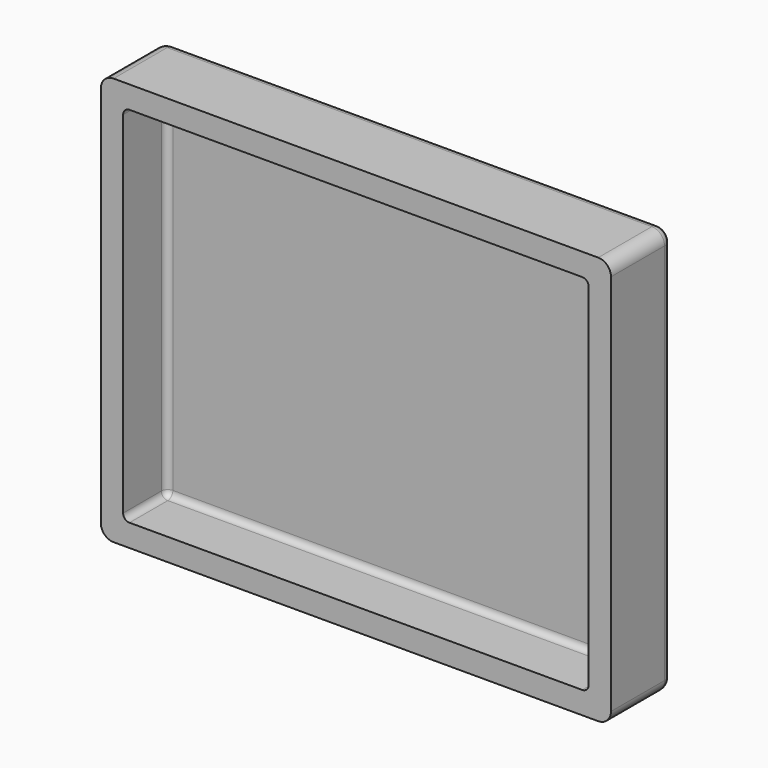
from build123d import *

# Parameters (mm, degrees)
F1_DEPTH = 76.2
F2_T     = -22.225
F3_R     = 9.525
F4_R     = 6.35
F5_R     = 6.35


with BuildPart() as f1:
    # F0 (on Front) → F1 (new body)
    with BuildSketch(Plane.XZ):
        with BuildLine():
            ThreePointArc((0, 12.7), (3.7197438789, 3.7197438789), (12.7, 0))
            Line((12.7, 0), (495.3, 0))
            ThreePointArc((495.3, 0), (504.2802561211, 3.7197438789), (508, 12.7))
            Line((508, 12.7), (508, 393.7))
            ThreePointArc((508, 393.7), (504.2802561211, 402.6802561211), (495.3, 406.4))
            Line((495.3, 406.4), (12.7, 406.4))
            ThreePointArc((12.7, 406.4), (3.7197438789, 402.6802561211), (0, 393.7))
            Line((0, 393.7), (0, 12.7))
        make_face()
    extrude(amount=F1_DEPTH)

    # F2
    f2_openings = [f1.faces().sort_by_distance(p)[0] for p in [
        (254, -76.2, 203.2),
    ]]
    offset(amount=F2_T, openings=f2_openings)

    # F3
    f3_edges = [f1.edges().sort_by_distance(p)[0] for p in [
        (254, 0, 406.4),
    ]]
    fillet(f3_edges, radius=F3_R)

    # F4
    f4_edges = [f1.edges().sort_by_distance(p)[0] for p in [
        (22.225, -49.2125, 22.225),
        (485.775, -49.2125, 22.225),
        (485.775, -49.2125, 384.175),
        (22.225, -49.2125, 384.175),
    ]]
    fillet(f4_edges, radius=F4_R)

    # F5
    f5_edges = [f1.edges().sort_by_distance(p)[0] for p in [
        (22.225, -22.225, 203.2),
    ]]
    fillet(f5_edges, radius=F5_R)


solid = f1.part
